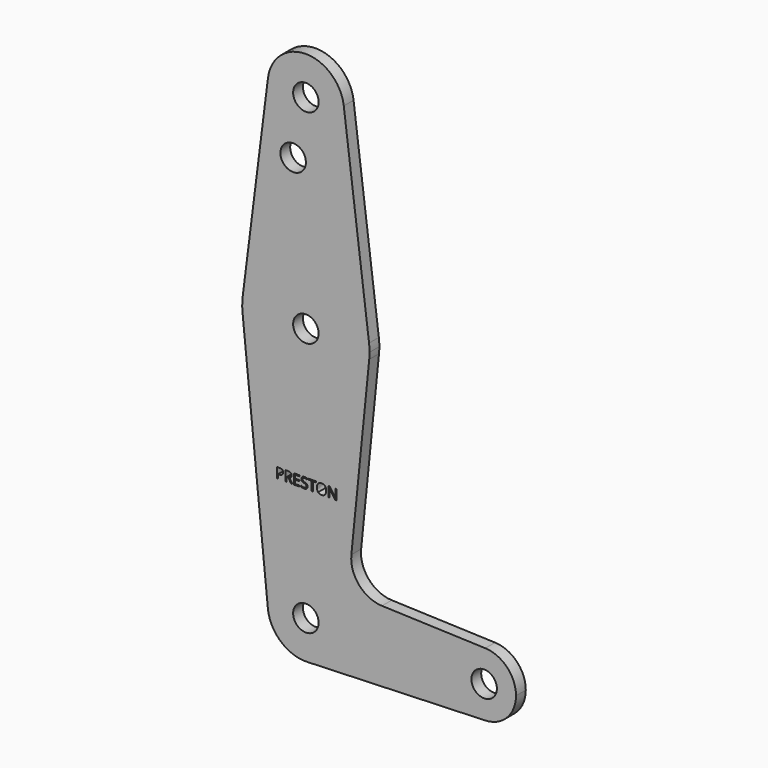
from build123d import *

# Parameters (mm, degrees)
F0_R     = 3.175
F1_DEPTH = 3.048


with BuildPart() as f1:
    # F0 (on Front) → F1 (new body)
    with BuildSketch(Plane.XZ):
        with BuildLine():
            ThreePointArc((-9.4502929642, 115.490625), (-0.596483242, 104.7936951058), (9.525, 114.3))
            ThreePointArc((9.525, 114.3), (9.5063048942, 114.896483242), (9.4502929642, 115.490625))
            ThreePointArc((9.4502929642, 115.490625), (0, 123.825), (-9.4502929642, 115.490625))
        make_face()
        with Locations((0, 114.3)):
            Circle(F0_R, mode=Mode.SUBTRACT)
        with BuildLine():
            ThreePointArc((9.4502929642, 115.490625), (9.5063048942, 114.896483242), (9.525, 114.3))
            ThreePointArc((9.525, 114.3), (-0.596483242, 104.7936951058), (-9.4502929642, 115.490625))
            Line((-9.4502929642, 115.490625), (-15.7504882737, 65.484375))
            ThreePointArc((-15.7504882737, 65.484375), (0, 79.375), (15.7504882737, 65.484375))
            Line((15.7504882737, 65.484375), (9.4502929642, 115.490625))
        make_face()
        with Locations((-3.175, 100.0252)):
            Circle(F0_R, mode=Mode.SUBTRACT)
        with BuildLine():
            ThreePointArc((15.875, 63.5), (15.8438414904, 64.4941387366), (15.7504882737, 65.484375))
            ThreePointArc((15.7504882737, 65.484375), (0, 79.375), (-15.7504882737, 65.484375))
            ThreePointArc((-15.7504882737, 65.484375), (-15.8737438155, 63.6997054867), (-15.7954255641, 61.9125))
            ThreePointArc((-15.7954255641, 61.9125), (0, 47.625), (15.7954255641, 61.9125))
            ThreePointArc((15.7954255641, 61.9125), (15.8550939106, 62.7052534459), (15.875, 63.5))
        make_face()
        with Locations((0, 63.5)):
            Circle(F0_R, mode=Mode.SUBTRACT)
        with BuildLine():
            ThreePointArc((15.7954255641, 61.9125), (0, 47.625), (-15.7954255641, 61.9125))
            Line((-15.7954255641, 61.9125), (-9.4772553384, -0.9525))
            ThreePointArc((-9.4772553384, -0.9525), (-0.4768479324, 9.5130563464), (9.525, 0))
            ThreePointArc((9.525, 0), (6.8544082857, -6.6138273378), (0.3401785714, -9.5189234444))
            Line((0.3401785714, -9.5189234444), (44.7334821429, -7.9324362036))
            ThreePointArc((44.7334821429, -7.9324362036), (36.5125, 0), (44.7334821429, 7.9324362036))
            Line((44.7334821429, 7.9324362036), (18.9676000005, 8.8532337108))
            ThreePointArc((18.9676000005, 8.8532337108), (13.2611998974, 11.5713591498), (11.3411865923, 17.5933818124))
            Line((11.3411865923, 17.5933818124), (15.7954255641, 61.9125))
        make_face()
        with BuildLine():
            add(Edge.make_bspline(
                [(-6.6082443576, 30.833461862), (-5.6645638021, 30.833461862), (-5.6645638021, 30.0997943273)],
                knots=[0, 0, 0, 1, 1, 1], degree=2))
            add(Edge.make_bspline(
                [(-5.6645638021, 30.0997943273), (-5.6645638021, 29.7172509245), (-5.9255642361, 29.5113720183)],
                knots=[0, 0, 0, 1, 1, 1], degree=2))
            add(Edge.make_bspline(
                [(-5.9255642361, 29.5113720183), (-6.1865646701, 29.305493112), (-6.6721853299, 29.305493112)],
                knots=[0, 0, 0, 1, 1, 1], degree=2))
            Line((-6.6721853299, 29.305493112), (-6.9687391493, 29.305493112))
            Line((-6.9687391493, 29.305493112), (-6.9687391493, 28.3149592578))
            Line((-6.9687391493, 28.3149592578), (-7.2614344618, 28.3149592578))
            Line((-7.2614344618, 28.3149592578), (-7.2614344618, 30.833461862))
            Line((-7.2614344618, 30.833461862), (-6.6082443576, 30.833461862))
        make_face(mode=Mode.SUBTRACT)
        with BuildLine():
            Line((-4.319047309, 29.3622682856), (-4.844906684, 29.3622682856))
            Line((-4.844906684, 29.3622682856), (-4.844906684, 28.3149592578))
            Line((-4.844906684, 28.3149592578), (-5.1376019965, 28.3149592578))
            Line((-5.1376019965, 28.3149592578), (-5.1376019965, 30.833461862))
            Line((-5.1376019965, 30.833461862), (-4.4469292535, 30.833461862))
            add(Edge.make_bspline(
                [(-4.4469292535, 30.833461862), (-3.9833572049, 30.833461862), (-3.7620442708, 30.6559705426)],
                knots=[0, 0, 0, 1, 1, 1], degree=2))
            add(Edge.make_bspline(
                [(-3.7620442708, 30.6559705426), (-3.5407313368, 30.4784792231), (-3.5407313368, 30.1218429384)],
                knots=[0, 0, 0, 1, 1, 1], degree=2))
            add(Edge.make_bspline(
                [(-3.5407313368, 30.1218429384), (-3.5407313368, 29.6224418967), (-4.0472981771, 29.4466042231)],
                knots=[0, 0, 0, 1, 1, 1], degree=2))
            Line((-4.0472981771, 29.4466042231), (-3.3632400174, 28.3149592578))
            Line((-3.3632400174, 28.3149592578), (-3.7094032118, 28.3149592578))
            Line((-3.7094032118, 28.3149592578), (-4.319047309, 29.3622682856))
        make_face(mode=Mode.SUBTRACT)
        Polygon((-1.5530490451, 28.5767865148), (-1.5530490451, 28.3149592578), (-2.9569943576, 28.3149592578), (-2.9569943576, 30.833461862), (-1.5530490451, 30.833461862), (-1.5530490451, 30.5732882509), (-2.6642990451, 30.5732882509), (-2.6642990451, 29.761899362), (-1.620297309, 29.761899362), (-1.620297309, 29.5033793967), (-2.6642990451, 29.5033793967), (-2.6642990451, 28.5767865148), align=None, mode=Mode.SUBTRACT)
        with BuildLine():
            add(Edge.make_bspline(
                [(0.2769856771, 29.4052630773), (0.4258138021, 29.2432057856), (0.4258138021, 28.9852370356)],
                knots=[0, 0, 0, 1, 1, 1], degree=2))
            add(Edge.make_bspline(
                [(0.4258138021, 28.9852370356), (0.4258138021, 28.6528542231), (0.1846571181, 28.4665434592)],
                knots=[0, 0, 0, 1, 1, 1], degree=2))
            add(Edge.make_bspline(
                [(0.1846571181, 28.4665434592), (-0.056499566, 28.2802326953), (-0.4699110243, 28.2802326953)],
                knots=[0, 0, 0, 1, 1, 1], degree=2))
            add(Edge.make_bspline(
                [(-0.4699110243, 28.2802326953), (-0.9174978299, 28.2802326953), (-1.1589301215, 28.3959879037)],
                knots=[0, 0, 0, 1, 1, 1], degree=2))
            Line((-1.1589301215, 28.3959879037), (-1.1589301215, 28.6782101259))
            add(Edge.make_bspline(
                [(-1.1589301215, 28.6782101259), (-1.0034874132, 28.6131667231), (-0.8210351562, 28.575132869)],
                knots=[0, 0, 0, 1, 1, 1], degree=2))
            add(Edge.make_bspline(
                [(-0.8210351562, 28.575132869), (-0.6385828993, 28.5370990148), (-0.459437934, 28.5370990148)],
                knots=[0, 0, 0, 1, 1, 1], degree=2))
            add(Edge.make_bspline(
                [(-0.459437934, 28.5370990148), (-0.1667426215, 28.5370990148), (-0.0184657118, 28.6481688933)],
                knots=[0, 0, 0, 1, 1, 1], degree=2))
            add(Edge.make_bspline(
                [(-0.0184657118, 28.6481688933), (0.1298111979, 28.7592387717), (0.1298111979, 28.9576762717)],
                knots=[0, 0, 0, 1, 1, 1], degree=2))
            add(Edge.make_bspline(
                [(0.1298111979, 28.9576762717), (0.1298111979, 29.0883142926), (0.0771701389, 29.1718234071)],
                knots=[0, 0, 0, 1, 1, 1], degree=2))
            add(Edge.make_bspline(
                [(0.0771701389, 29.1718234071), (0.0245290799, 29.2553325217), (-0.0986675347, 29.3261636849)],
                knots=[0, 0, 0, 1, 1, 1], degree=2))
            add(Edge.make_bspline(
                [(-0.0986675347, 29.3261636849), (-0.2218641493, 29.3969948481), (-0.473218316, 29.4862917231)],
                knots=[0, 0, 0, 1, 1, 1], degree=2))
            add(Edge.make_bspline(
                [(-0.473218316, 29.4862917231), (-0.8243424479, 29.6119688065), (-0.9750998264, 29.7842235808)],
                knots=[0, 0, 0, 1, 1, 1], degree=2))
            add(Edge.make_bspline(
                [(-0.9750998264, 29.7842235808), (-1.1258572049, 29.9564783551), (-1.1258572049, 30.2337396398)],
                knots=[0, 0, 0, 1, 1, 1], degree=2))
            add(Edge.make_bspline(
                [(-1.1258572049, 30.2337396398), (-1.1258572049, 30.5247813065), (-0.9073003472, 30.6970360808)],
                knots=[0, 0, 0, 1, 1, 1], degree=2))
            add(Edge.make_bspline(
                [(-0.9073003472, 30.6970360808), (-0.6887434896, 30.8692908551), (-0.3282486979, 30.8692908551)],
                knots=[0, 0, 0, 1, 1, 1], degree=2))
            add(Edge.make_bspline(
                [(-0.3282486979, 30.8692908551), (0.0471289063, 30.8692908551), (0.3624240451, 30.7314870356)],
                knots=[0, 0, 0, 1, 1, 1], degree=2))
            Line((0.3624240451, 30.7314870356), (0.270922309, 30.4768255773))
            add(Edge.make_bspline(
                [(0.270922309, 30.4768255773), (-0.0410655382, 30.6074635981), (-0.3354144965, 30.6074635981)],
                knots=[0, 0, 0, 1, 1, 1], degree=2))
            add(Edge.make_bspline(
                [(-0.3354144965, 30.6074635981), (-0.5680273437, 30.6074635981), (-0.6989409722, 30.5076936328)],
                knots=[0, 0, 0, 1, 1, 1], degree=2))
            add(Edge.make_bspline(
                [(-0.6989409722, 30.5076936328), (-0.8298546007, 30.4079236676), (-0.8298546007, 30.2304323481)],
                knots=[0, 0, 0, 1, 1, 1], degree=2))
            add(Edge.make_bspline(
                [(-0.8298546007, 30.2304323481), (-0.8298546007, 30.0997943273), (-0.7816232639, 30.0160096051)],
                knots=[0, 0, 0, 1, 1, 1], degree=2))
            add(Edge.make_bspline(
                [(-0.7816232639, 30.0160096051), (-0.7333919271, 29.9322248828), (-0.6187391493, 29.8624961502)],
                knots=[0, 0, 0, 1, 1, 1], degree=2))
            add(Edge.make_bspline(
                [(-0.6187391493, 29.8624961502), (-0.5040863715, 29.7927674176), (-0.2681662326, 29.7084314801)],
                knots=[0, 0, 0, 1, 1, 1], degree=2))
            add(Edge.make_bspline(
                [(-0.2681662326, 29.7084314801), (0.1281575521, 29.567320369), (0.2769856771, 29.4052630773)],
                knots=[0, 0, 0, 1, 1, 1], degree=2))
        make_face(mode=Mode.SUBTRACT)
        Polygon((1.7162087674, 30.5732882509), (1.7162087674, 28.3149592578), (1.4235134549, 28.3149592578), (1.4235134549, 30.5732882509), (0.6259049479, 30.5732882509), (0.6259049479, 30.833461862), (2.5138172743, 30.833461862), (2.5138172743, 30.5732882509), align=None, mode=Mode.SUBTRACT)
        with BuildLine():
            add(Edge.make_bspline(
                [(4.7743511285, 30.5286398134), (5.0791731771, 30.1841302648), (5.0791731771, 29.5777934592)],
                knots=[0, 0, 0, 1, 1, 1], degree=2))
            add(Edge.make_bspline(
                [(5.0791731771, 29.5777934592), (5.0791731771, 28.9731102995), (4.7732486979, 28.6266714974)],
                knots=[0, 0, 0, 1, 1, 1], degree=2))
            add(Edge.make_bspline(
                [(4.7732486979, 28.6266714974), (4.4673242188, 28.2802326953), (3.9232747396, 28.2802326953)],
                knots=[0, 0, 0, 1, 1, 1], degree=2))
            add(Edge.make_bspline(
                [(3.9232747396, 28.2802326953), (3.3670985243, 28.2802326953), (3.0647569444, 28.6206081294)],
                knots=[0, 0, 0, 1, 1, 1], degree=2))
            add(Edge.make_bspline(
                [(3.0647569444, 28.6206081294), (2.7624153646, 28.9609835634), (2.7624153646, 29.5811007509)],
                knots=[0, 0, 0, 1, 1, 1], degree=2))
            add(Edge.make_bspline(
                [(2.7624153646, 29.5811007509), (2.7624153646, 30.1962570009), (3.0655837674, 30.5347031815)],
                knots=[0, 0, 0, 1, 1, 1], degree=2))
            add(Edge.make_bspline(
                [(3.0655837674, 30.5347031815), (3.3687521701, 30.873149362), (3.9265820313, 30.873149362)],
                knots=[0, 0, 0, 1, 1, 1], degree=2))
            add(Edge.make_bspline(
                [(3.9265820313, 30.873149362), (4.4695290799, 30.873149362), (4.7743511285, 30.5286398134)],
                knots=[0, 0, 0, 1, 1, 1], degree=2))
        make_face(mode=Mode.SUBTRACT)
        with BuildLine():
            Line((7.6075976563, 30.833461862), (7.6075976563, 28.3149592578))
            Line((7.6075976563, 28.3149592578), (7.2735611979, 28.3149592578))
            Line((7.2735611979, 28.3149592578), (5.8971766493, 30.4283186328))
            Line((5.8971766493, 30.4283186328), (5.8833962674, 30.4283186328))
            add(Edge.make_bspline(
                [(5.8833962674, 30.4283186328), (5.9109570313, 30.0562483203), (5.9109570313, 29.7464653342)],
                knots=[0, 0, 0, 1, 1, 1], degree=2))
            Line((5.9109570313, 29.7464653342), (5.9109570313, 28.3149592578))
            Line((5.9109570313, 28.3149592578), (5.6403103299, 28.3149592578))
            Line((5.6403103299, 28.3149592578), (5.6403103299, 30.833461862))
            Line((5.6403103299, 30.833461862), (5.9710394965, 30.833461862))
            Line((5.9710394965, 30.833461862), (7.3441167535, 28.7283707162))
            Line((7.3441167535, 28.7283707162), (7.3578971354, 28.7283707162))
            add(Edge.make_bspline(
                [(7.3578971354, 28.7283707162), (7.3545898438, 28.7746727995), (7.3424631076, 29.0271293967)],
                knots=[0, 0, 0, 1, 1, 1], degree=2))
            add(Edge.make_bspline(
                [(7.3424631076, 29.0271293967), (7.3303363715, 29.279585994), (7.3336436632, 29.3881754037)],
                knots=[0, 0, 0, 1, 1, 1], degree=2))
            Line((7.3336436632, 29.3881754037), (7.3336436632, 30.833461862))
            Line((7.3336436632, 30.833461862), (7.6075976563, 30.833461862))
        make_face(mode=Mode.SUBTRACT)
        with BuildLine():
            ThreePointArc((9.525, 0), (-0.4768479324, 9.5130563464), (-9.4772553384, -0.9525))
            ThreePointArc((-9.4772553384, -0.9525), (-6.2623833816, -7.1769199091), (0.3401785714, -9.5189234444))
            ThreePointArc((0.3401785714, -9.5189234444), (6.8544082857, -6.6138273378), (9.525, 0))
        make_face()
        Circle(F0_R, mode=Mode.SUBTRACT)
        with BuildLine():
            ThreePointArc((44.7334821429, 7.9324362036), (36.5125, 0), (44.7334821429, -7.9324362036))
            ThreePointArc((44.7334821429, -7.9324362036), (50.1620069047, -5.5115227815), (52.3875, 0))
            ThreePointArc((52.3875, 0), (50.1620069047, 5.5115227815), (44.7334821429, 7.9324362036))
        make_face()
        with Locations((44.45, 0)):
            Circle(F0_R, mode=Mode.SUBTRACT)
    extrude(amount=F1_DEPTH)


solid = f1.part
